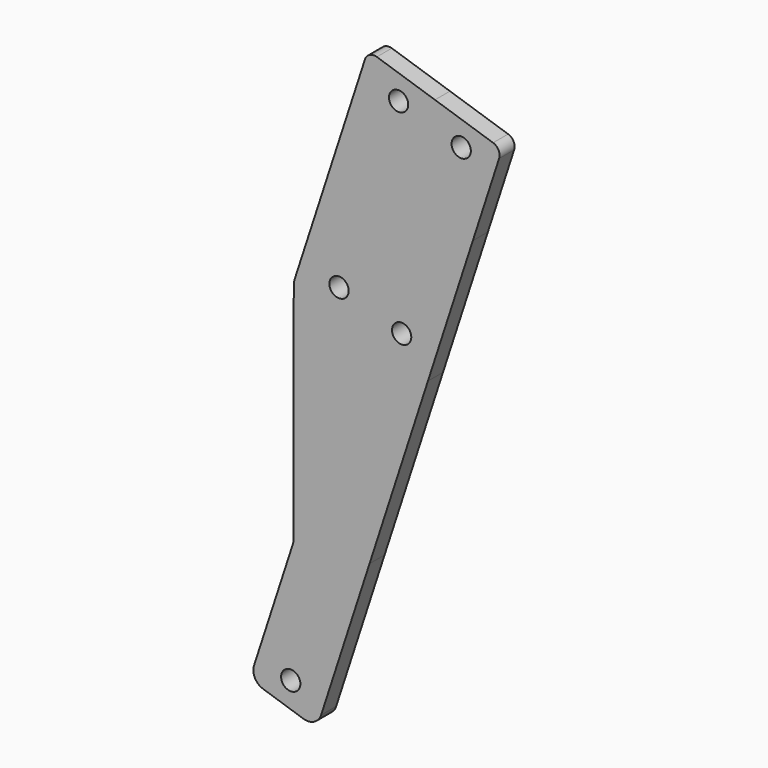
from build123d import *

# Parameters (mm, degrees)
F0_R     = 2.05
F1_DEPTH = 4


with BuildPart() as f1:
    # F0 (on Front) → F1 (new body)
    with BuildSketch(Plane.XZ):
        with BuildLine():
            Line((-48.407997, -55.852344), (-38.115982, -24.176777))
            Line((-38.115982, -24.176777), (-25.695248, 14.05031))
            Line((-25.695248, 14.05031), (-16.146276, 43.439023))
            Line((-16.146276, 43.439023), (-10.553415, 60.652079))
            ThreePointArc((-10.553415, 60.652079), (-10.673515, 62.178094), (-11.837495, 63.172226))
            Line((-11.837495, 63.172226), (-24.201229, 67.189447))
            Line((-24.201229, 67.189447), (-36.564964, 71.206668))
            ThreePointArc((-36.564964, 71.206668), (-38.090979, 71.086568), (-39.085111, 69.922589))
            Line((-39.085111, 69.922589), (-53.983036, 24.071489))
            ThreePointArc((-53.983036, 24.071489), (-54.165795, 23.311102), (-54.227751, 22.531519))
            Line((-54.227751, 22.531519), (-54.276441, -25.057812))
            ThreePointArc((-54.276441, -25.057812), (-54.301224, -25.369645), (-54.374327, -25.6738))
            Line((-54.374327, -25.6738), (-62.670909, -51.208054))
            ThreePointArc((-62.670909, -51.208054), (-62.502925, -53.472932), (-60.796063, -54.971103))
            Line((-60.796063, -54.971103), (-52.188218, -57.778463))
            ThreePointArc((-52.188218, -57.778463), (-49.899195, -57.598313), (-48.407997, -55.852344))
        make_face()
        with Locations((-54.869265, -51.467572)):
            Circle(F0_R, mode=Mode.SUBTRACT)
        with Locations((-44.597878, 25.449458)):
            Circle(F0_R, mode=Mode.SUBTRACT)
        with Locations((-31.283087, 21.12322)):
            Circle(F0_R, mode=Mode.SUBTRACT)
        with Locations((-31.928182, 64.442775)):
            Circle(F0_R, mode=Mode.SUBTRACT)
        with Locations((-18.61339, 60.116537)):
            Circle(F0_R, mode=Mode.SUBTRACT)
    extrude(amount=F1_DEPTH)


solid = f1.part
